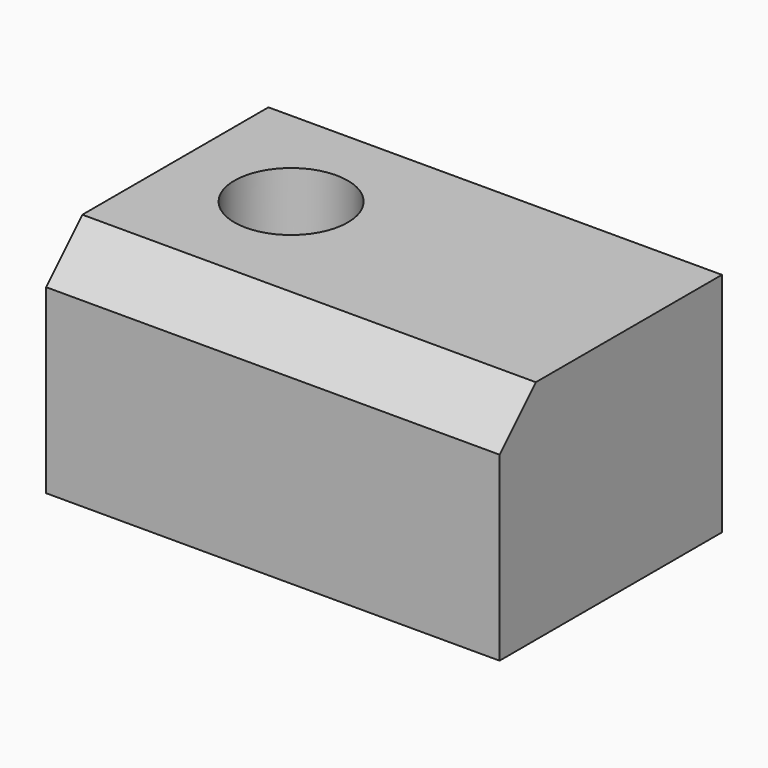
from build123d import *

# Parameters (mm, degrees)
F0_W     = 50.8
F0_H     = 31.135607
F0_R     = 6.35
F1_DEPTH = 25.4
F2_SIZE  = 5.08


with BuildPart() as f1:
    # F0 (on Top) → F1 (new body)
    with BuildSketch(Plane.XY):
        with Locations((-15.203188, -10.167003)):
            Rectangle(F0_W, F0_H)
        with Locations((-27.903188, -7.2992)):
            Circle(F0_R, mode=Mode.SUBTRACT)
    extrude(amount=F1_DEPTH)

    # F2
    f2_edges = [f1.edges().sort_by_distance(p)[0] for p in [
        (-15.203188, -25.734807, 25.4),
    ]]
    chamfer(f2_edges, length=F2_SIZE)


solid = f1.part
